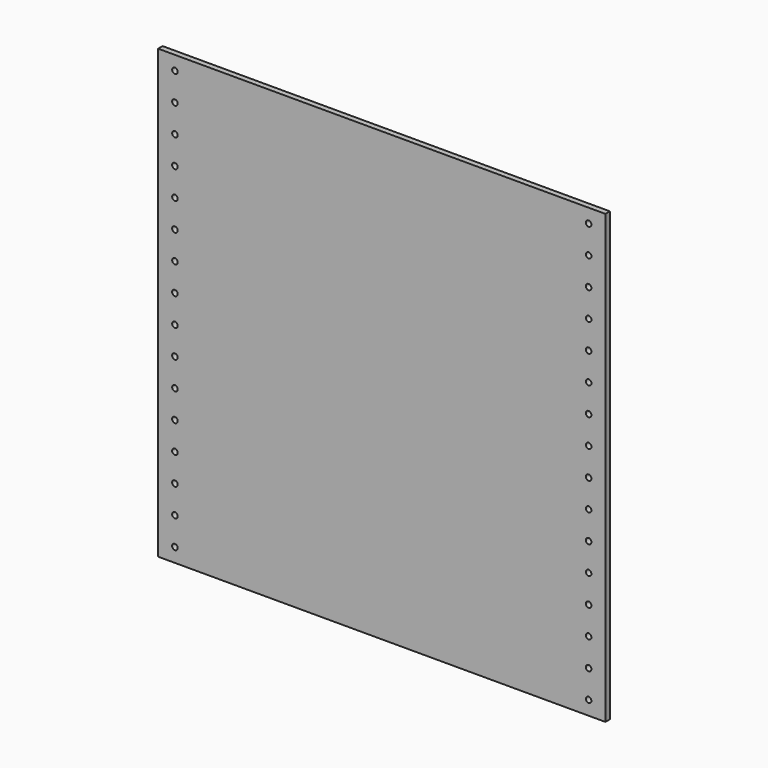
from build123d import *

# Parameters (mm, degrees)
F0_W     = 203.2
F0_H     = 203.2
F1_DEPTH = 2.54
F2_R     = 1.27
F3_DEPTH = 25.4
F4_R     = 1.27
F5_DEPTH = 25.4


with BuildPart() as f1:
    # F0 (on Front) → F1 (new body)
    with BuildSketch(Plane.XZ):
        with Locations((-101.6, 101.6)):
            Rectangle(F0_W, F0_H)
    extrude(amount=F1_DEPTH)

    # F2 (on face) → F3 (cut)
    with BuildSketch(Plane.XZ.offset(2.54)):
        with Locations((-195.58, 31.75)):
            Circle(F2_R)
        with Locations((-195.58, 44.45)):
            Circle(F2_R)
        with Locations((-195.58, 57.15)):
            Circle(F2_R)
        with Locations((-195.58, 69.85)):
            Circle(F2_R)
        with Locations((-195.58, 82.55)):
            Circle(F2_R)
        with Locations((-195.58, 95.25)):
            Circle(F2_R)
        with Locations((-195.58, 107.95)):
            Circle(F2_R)
        with Locations((-195.58, 120.65)):
            Circle(F2_R)
        with Locations((-195.58, 133.35)):
            Circle(F2_R)
        with Locations((-195.58, 146.05)):
            Circle(F2_R)
        with Locations((-195.58, 158.75)):
            Circle(F2_R)
        with Locations((-195.58, 196.85)):
            Circle(F2_R)
        with Locations((-195.58, 171.45)):
            Circle(F2_R)
        with Locations((-195.58, 184.15)):
            Circle(F2_R)
        with Locations((-195.58, 19.05)):
            Circle(F2_R)
        with BuildLine():
            ThreePointArc((-194.31, 6.35), (-196.478026, 7.248026), (-195.58, 5.08))
            ThreePointArc((-195.58, 5.08), (-194.681974, 5.451974), (-194.31, 6.35))
        make_face()
    extrude(amount=-F3_DEPTH, mode=Mode.SUBTRACT)

    # F4 (on face) → F5 (cut)
    with BuildSketch(Plane.XZ.offset(2.54)):
        with Locations((-7.62, 44.45)):
            Circle(F4_R)
        with Locations((-7.62, 57.15)):
            Circle(F4_R)
        with Locations((-7.62, 69.85)):
            Circle(F4_R)
        with Locations((-7.62, 82.55)):
            Circle(F4_R)
        with Locations((-7.62, 95.25)):
            Circle(F4_R)
        with Locations((-7.62, 107.95)):
            Circle(F4_R)
        with Locations((-7.62, 120.65)):
            Circle(F4_R)
        with Locations((-7.62, 133.35)):
            Circle(F4_R)
        with Locations((-7.62, 196.85)):
            Circle(F4_R)
        with Locations((-7.62, 171.45)):
            Circle(F4_R)
        with Locations((-7.62, 184.15)):
            Circle(F4_R)
        with Locations((-7.62, 31.75)):
            Circle(F4_R)
        with Locations((-7.62, 146.05)):
            Circle(F4_R)
        with Locations((-7.62, 158.75)):
            Circle(F4_R)
        with Locations((-7.62, 19.05)):
            Circle(F4_R)
        with BuildLine():
            ThreePointArc((-6.35, 6.35), (-8.518026, 7.248026), (-7.62, 5.08))
            ThreePointArc((-7.62, 5.08), (-6.721974, 5.451974), (-6.35, 6.35))
        make_face()
    extrude(amount=-F5_DEPTH, mode=Mode.SUBTRACT)


solid = f1.part
